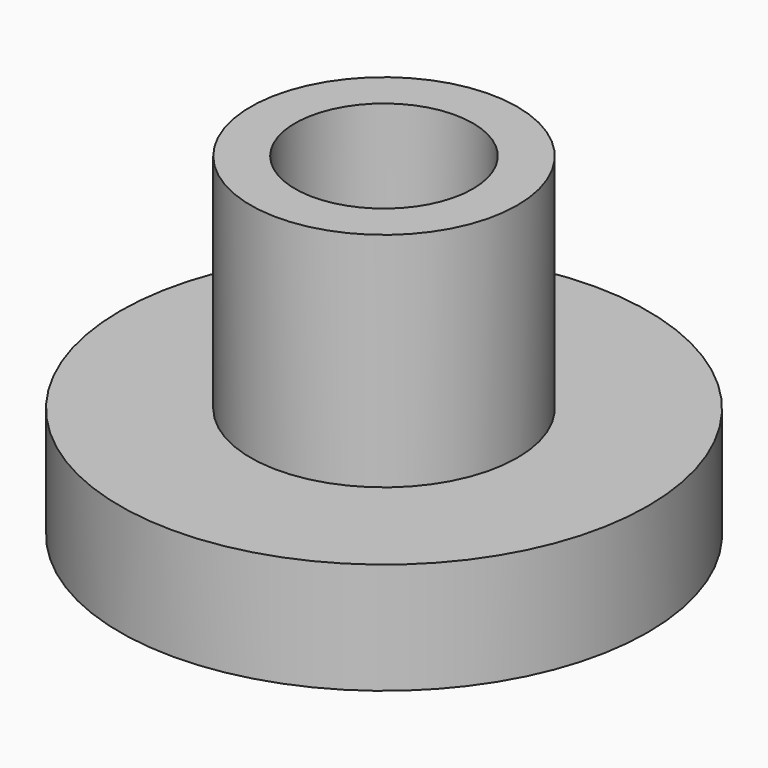
from build123d import *

# Parameters (mm, degrees)
F0_R     = 30
F1_DEPTH = 75
F2_R     = 20
F3_DEPTH = 75
F4_R     = 59.37587
F5_DEPTH = 25


with BuildPart() as f1:
    # F0 (on Top) → F1 (new body)
    with BuildSketch(Plane.XY):
        Circle(F0_R)
    extrude(amount=F1_DEPTH)

    # F2 (on Top) → F3 (cut, through all)
    with BuildSketch(Plane.XY):
        Circle(F2_R)
    extrude(amount=F3_DEPTH, mode=Mode.SUBTRACT)

    # F4 (on Top) → F5 (join)
    with BuildSketch(Plane.XY):
        Circle(F4_R)
    extrude(amount=F5_DEPTH)


solid = f1.part
